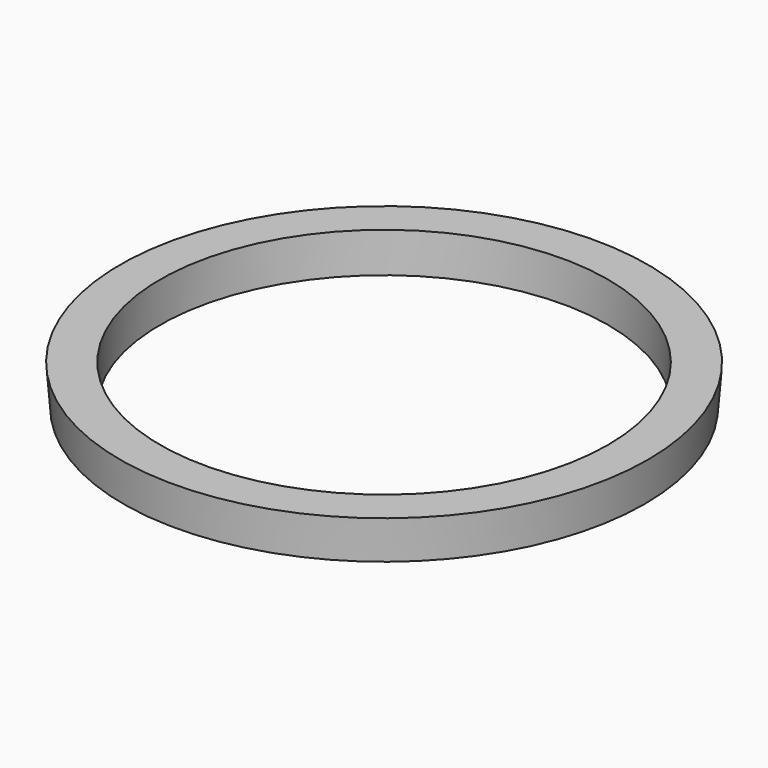
from build123d import *

# Parameters (mm, degrees)
CYLINDER010_R     = 28
CYLINDER010_DEPTH = 10


with BuildPart() as cylinder010:
    # Cylinder010 → Cylinder010 (new body)
    with BuildSketch(Plane.XY.offset(86)):
        Circle(CYLINDER010_R)
    extrude(amount=CYLINDER010_DEPTH)


with BuildPart() as cut010:
    # Cone009 → Cone009 (revolve)
    with BuildSketch(Plane(origin=(0, 0, 87), x_dir=(1, 0, 0), z_dir=(0, -1, 0))):
        Polygon((0, 0), (32.6, 0), (33, 5), (0, 5), align=None)
    revolve(axis=Axis((0, 0, 87), (0, 0, 1)))

    # Cut010: cut Cylinder010
    add(cylinder010.part, mode=Mode.SUBTRACT)


solid = cut010.part
